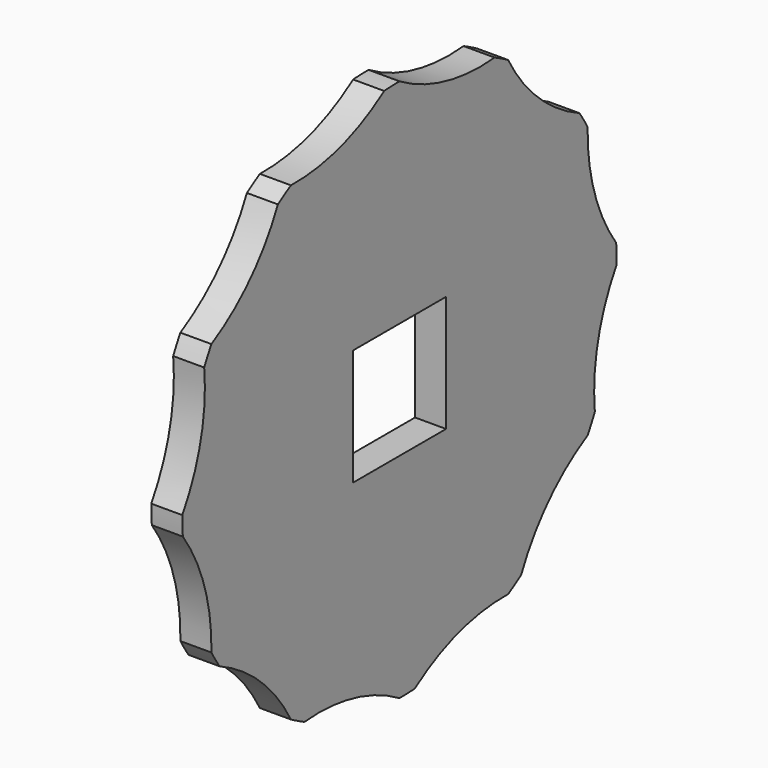
from build123d import *

# Parameters (mm, degrees)
F1_DEPTH = 8


with BuildPart() as f1:
    # F0 (on Right) → F1 (new body)
    with BuildSketch(Plane.YZ):
        with BuildLine():
            ThreePointArc((-39.195457, 57.997553), (-48.05448, 44.771316), (-60.621778, 35))
            ThreePointArc((-60.621778, 35), (-61.82104, 32.835331), (-62.943038, 30.629625))
            ThreePointArc((-62.943038, 30.629625), (-64.002058, 14.745857), (-70, 0))
            ThreePointArc((-70, 0), (-69.956257, -2.474289), (-69.825083, -4.945485))
            ThreePointArc((-69.825083, -4.945485), (-62.800337, -19.230742), (-60.621778, -35))
            ThreePointArc((-60.621778, -35), (-59.346751, -37.120926), (-57.997553, -39.195457))
            ThreePointArc((-57.997553, -39.195457), (-44.771316, -48.05448), (-35, -60.621778))
            ThreePointArc((-35, -60.621778), (-32.835331, -61.82104), (-30.629625, -62.943038))
            ThreePointArc((-30.629625, -62.943038), (-14.745857, -64.002058), (0, -70))
            ThreePointArc((0, -70), (2.474289, -69.956257), (4.945485, -69.825083))
            ThreePointArc((4.945485, -69.825083), (19.230742, -62.800337), (35, -60.621778))
            ThreePointArc((35, -60.621778), (37.120926, -59.346751), (39.195457, -57.997553))
            ThreePointArc((39.195457, -57.997553), (48.05448, -44.771316), (60.621778, -35))
            ThreePointArc((60.621778, -35), (61.82104, -32.835331), (62.943038, -30.629625))
            ThreePointArc((62.943038, -30.629625), (64.002058, -14.745857), (70, 0))
            ThreePointArc((70, 0), (69.956257, 2.474289), (69.825083, 4.945485))
            ThreePointArc((69.825083, 4.945485), (62.800337, 19.230742), (60.621778, 35))
            ThreePointArc((60.621778, 35), (59.346751, 37.120926), (57.997553, 39.195457))
            ThreePointArc((57.997553, 39.195457), (44.771316, 48.05448), (35, 60.621778))
            ThreePointArc((35, 60.621778), (32.835331, 61.82104), (30.629625, 62.943038))
            ThreePointArc((30.629625, 62.943038), (14.745857, 64.002058), (0, 70))
            ThreePointArc((0, 70), (-2.474289, 69.956257), (-4.945485, 69.825083))
            ThreePointArc((-4.945485, 69.825083), (-19.230742, 62.800337), (-35, 60.621778))
            ThreePointArc((-35, 60.621778), (-37.120926, 59.346751), (-39.195457, 57.997553))
        make_face()
        Polygon((15, -15), (-15, -15), (-15, 15), (0, 15), (15, 15), align=None, mode=Mode.SUBTRACT)
    extrude(amount=F1_DEPTH)


solid = f1.part
